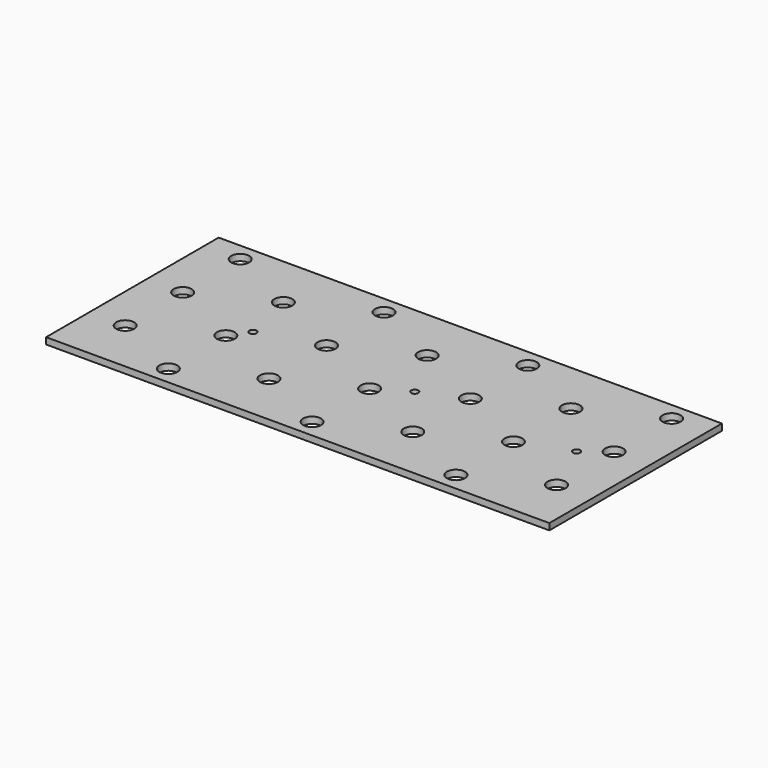
from build123d import *

# Parameters (mm, degrees)
SKETCH_W   = 140
SKETCH_H   = 60
SKETCH_R   = 2.5
SKETCH_R_2 = 1
PAD_DEPTH  = 1.8


with BuildPart() as part:
    # Sketch → Pad (new body)
    with BuildSketch(Plane.XY):
        with Locations((68.5, 39.5)):
            Rectangle(SKETCH_W, SKETCH_H)
        with Locations((28.5, 14.5)):
            Circle(SKETCH_R, mode=Mode.SUBTRACT)
        with Locations((108.5, 14.5)):
            Circle(SKETCH_R, mode=Mode.SUBTRACT)
        with Locations((8.5, 24.5)):
            Circle(SKETCH_R, mode=Mode.SUBTRACT)
        with Locations((48.5, 24.5)):
            Circle(SKETCH_R, mode=Mode.SUBTRACT)
        with Locations((88.5, 24.5)):
            Circle(SKETCH_R, mode=Mode.SUBTRACT)
        with Locations((8.5, 44.5)):
            Circle(SKETCH_R, mode=Mode.SUBTRACT)
        with Locations((48.5, 44.5)):
            Circle(SKETCH_R, mode=Mode.SUBTRACT)
        with Locations((88.5, 44.5)):
            Circle(SKETCH_R, mode=Mode.SUBTRACT)
        with Locations((28.5, 54.5)):
            Circle(SKETCH_R, mode=Mode.SUBTRACT)
        with Locations((68.5, 54.5)):
            Circle(SKETCH_R, mode=Mode.SUBTRACT)
        with Locations((108.5, 54.5)):
            Circle(SKETCH_R, mode=Mode.SUBTRACT)
        with Locations((88.5, 64.5)):
            Circle(SKETCH_R, mode=Mode.SUBTRACT)
        with Locations((48.5, 64.5)):
            Circle(SKETCH_R, mode=Mode.SUBTRACT)
        with Locations((8.5, 64.5)):
            Circle(SKETCH_R, mode=Mode.SUBTRACT)
        with Locations((28.5, 34.5)):
            Circle(SKETCH_R, mode=Mode.SUBTRACT)
        with Locations((68.5, 34.5)):
            Circle(SKETCH_R, mode=Mode.SUBTRACT)
        with Locations((108.5, 34.5)):
            Circle(SKETCH_R, mode=Mode.SUBTRACT)
        with Locations((68.5, 14.5)):
            Circle(SKETCH_R, mode=Mode.SUBTRACT)
        with Locations((128.5, 24.5)):
            Circle(SKETCH_R, mode=Mode.SUBTRACT)
        with Locations((128.5, 44.5)):
            Circle(SKETCH_R, mode=Mode.SUBTRACT)
        with Locations((128.5, 64.5)):
            Circle(SKETCH_R, mode=Mode.SUBTRACT)
        with Locations((77.055992, 39.5)):
            Circle(SKETCH_R_2, mode=Mode.SUBTRACT)
        with Locations((122.055992, 39.5)):
            Circle(SKETCH_R_2, mode=Mode.SUBTRACT)
        with Locations((32.055992, 39.5)):
            Circle(SKETCH_R_2, mode=Mode.SUBTRACT)
    extrude(amount=PAD_DEPTH)


solid = part.part
